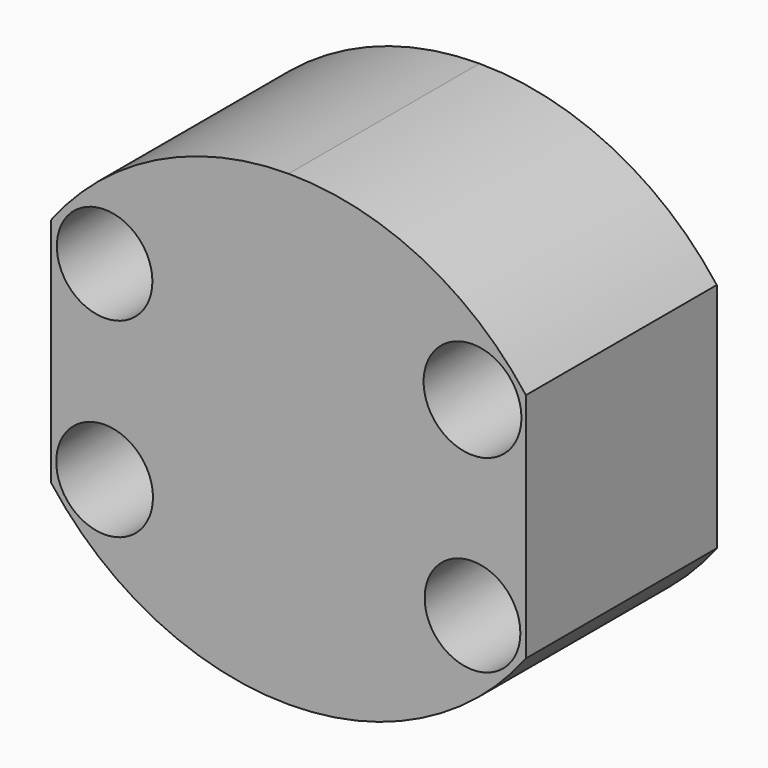
from build123d import *

# Parameters (mm, degrees)
F1_DEPTH  = 104.5
F3_DEPTH  = 127.001
F4_W      = 127
F4_H      = 62
F5_DEPTH  = 27
F7_DEPTH  = 93.5104
F8_W      = 78.298144
F8_H      = 207.146659
F9_DEPTH  = 127.001
F11_DEPTH = 63.827166
F12_R     = 12.802334
F12_R_2   = 12.940418
F12_R_3   = 12.784861
F12_R_4   = 13.089145
F13_DEPTH = 25.4


with BuildPart() as f1:
    # F0 (on Front) → F1 (new body)
    with BuildSketch(Plane.XZ):
        with BuildLine():
            ThreePointArc((0, 62.5094), (-35.443943, 54.198998), (-63.5, 31))
            Line((-63.5, 31), (0, 31))
            Line((0, 31), (0, 62.5094))
        make_face()
        Polygon((0, 31), (-63.5, 31), (-63.5, -31), (0, -31), (0, 0), align=None)
        with BuildLine():
            Line((0, 62.5094), (0, 31))
            Line((0, 31), (63.5, 31))
            ThreePointArc((63.5, 31), (35.443943, 54.198998), (0, 62.5094))
        make_face()
        Polygon((63.5, 31), (0, 31), (0, 0), (0, -31), (63.5, -31), align=None)
        with BuildLine():
            Line((0, -31), (-63.5, -31))
            ThreePointArc((-63.5, -31), (-35.441854, -54.192308), (0, -62.5))
            Line((0, -62.5), (0, -31))
        make_face()
        with BuildLine():
            Line((63.5, -31), (0, -31))
            Line((0, -31), (0, -62.5))
            ThreePointArc((0, -62.5), (35.441854, -54.192308), (63.5, -31))
        make_face()
    extrude(amount=F1_DEPTH)

    # F2 (on face) → F3 (cut, through all)
    with BuildSketch(Plane.YZ.offset(63.5)):
        Polygon((-104.5, 72.844587), (-104.5, 31), (-62.5, 64.333223), align=None)
        Polygon((-62.5, -65.093011), (-104.5, -31), (-104.5, -67.313612), align=None)
    extrude(amount=-F3_DEPTH, mode=Mode.SUBTRACT)

    # F4 (on face) → F5 (join)
    with BuildSketch(Plane.XZ.offset(104.5)):
        Rectangle(F4_W, F4_H)
    extrude(amount=F5_DEPTH)

    # F6 (on face) → F7 (cut, through all)
    with BuildSketch(Plane(origin=(0, 0, -31), x_dir=(1, 0, 0), z_dir=(0, 0, -1))):
        with BuildLine():
            ThreePointArc((-63.5, 104.5), (-34.500906, 124.469723), (0, 131.5))
            Line((0, 131.5), (-63.5, 131.5))
            Line((-63.5, 131.5), (-63.5, 104.5))
        make_face()
        with BuildLine():
            ThreePointArc((0, 131.5), (34.500906, 124.469723), (63.5, 104.5))
            Line((63.5, 104.5), (63.5, 131.5))
            Line((63.5, 131.5), (0, 131.5))
        make_face()
    extrude(amount=-F7_DEPTH, mode=Mode.SUBTRACT)

    # F8 (on face) → F9 (cut, through all)
    with BuildSketch(Plane.YZ.offset(63.5)):
        with Locations((-102.975238, -5.202033)):
            Rectangle(F8_W, F8_H)
    extrude(amount=-F9_DEPTH, mode=Mode.SUBTRACT)

    # F10 (on face) → F11 (cut, through all)
    with BuildSketch(Plane.XZ.offset(63.826166)):
        with BuildLine():
            ThreePointArc((53.975, -25.529381), (52.580096, -22.161785), (49.2125, -20.766881))
            Line((49.2125, -20.766881), (49.2125, -25.529381))
            Line((49.2125, -25.529381), (44.45, -25.529381))
            ThreePointArc((44.45, -25.529381), (49.2125, -30.291881), (53.975, -25.529381))
        make_face()
        with BuildLine():
            Line((49.2125, -25.529381), (49.2125, -20.766881))
            ThreePointArc((49.2125, -20.766881), (45.844904, -22.161785), (44.45, -25.529381))
            Line((44.45, -25.529381), (49.2125, -25.529381))
        make_face()
        with BuildLine():
            Line((-49.2125, -25.529381), (-49.2125, -20.766881))
            ThreePointArc((-49.2125, -20.766881), (-52.580096, -28.896977), (-44.45, -25.529381))
            Line((-44.45, -25.529381), (-49.2125, -25.529381))
        make_face()
        with BuildLine():
            ThreePointArc((-44.45, -25.529381), (-45.844904, -22.161785), (-49.2125, -20.766881))
            Line((-49.2125, -20.766881), (-49.2125, -25.529381))
            Line((-49.2125, -25.529381), (-44.45, -25.529381))
        make_face()
        with BuildLine():
            ThreePointArc((-44.45, 25.295729), (-52.580096, 28.663325), (-49.2125, 20.533229))
            Line((-49.2125, 20.533229), (-49.2125, 25.295729))
            Line((-49.2125, 25.295729), (-44.45, 25.295729))
        make_face()
        with BuildLine():
            Line((-49.2125, 25.295729), (-49.2125, 20.533229))
            ThreePointArc((-49.2125, 20.533229), (-45.844904, 21.928133), (-44.45, 25.295729))
            Line((-44.45, 25.295729), (-49.2125, 25.295729))
        make_face()
        with BuildLine():
            ThreePointArc((44.45, 25.295729), (45.844904, 21.928133), (49.2125, 20.533229))
            Line((49.2125, 20.533229), (49.2125, 25.295729))
            Line((49.2125, 25.295729), (44.45, 25.295729))
        make_face()
        with BuildLine():
            Line((49.2125, 25.295729), (49.2125, 20.533229))
            ThreePointArc((49.2125, 20.533229), (52.580096, 21.928133), (53.975, 25.295729))
            ThreePointArc((53.975, 25.295729), (49.2125, 30.058229), (44.45, 25.295729))
            Line((44.45, 25.295729), (49.2125, 25.295729))
        make_face()
    extrude(amount=-F11_DEPTH, mode=Mode.SUBTRACT)

    # F12 (on face) → F13 (cut)
    with BuildSketch(Plane.XZ.offset(63.826166)):
        with Locations((49.2125, -25.529381)):
            Circle(F12_R)
        with Locations((-49.2125, -25.529381)):
            Circle(F12_R_2)
        with Locations((-49.2125, 25.295729)):
            Circle(F12_R_3)
        with Locations((49.2125, 25.295729)):
            Circle(F12_R_4)
    extrude(amount=-F13_DEPTH, mode=Mode.SUBTRACT)


solid = f1.part
